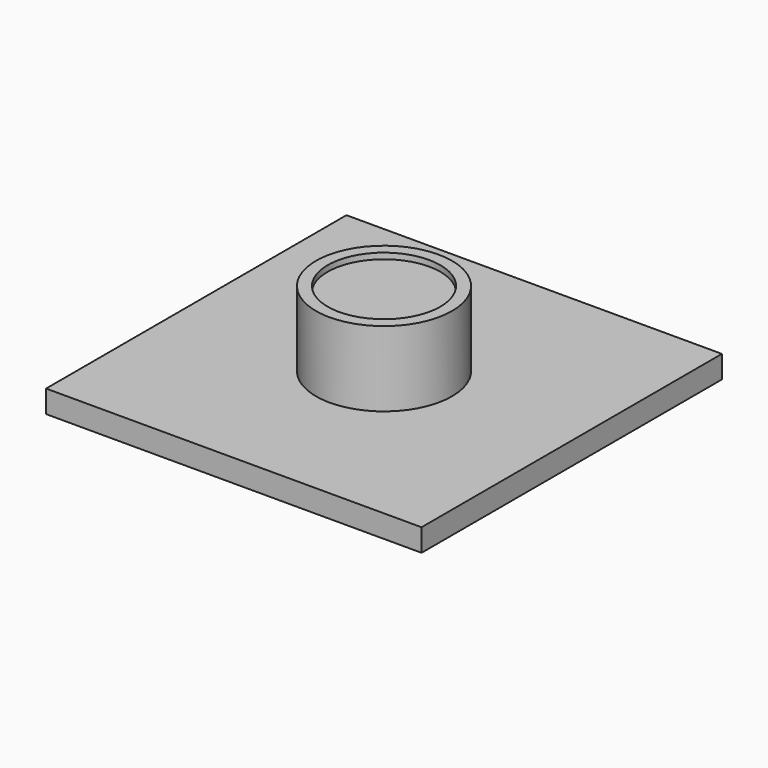
from build123d import *

# Parameters (mm, degrees)
F0_W     = 63.5
F0_H     = 63.499996
F1_DEPTH = 3.81
F2_R     = 11.5062
F3_DEPTH = 12.7
F4_R     = 9.525
F5_DEPTH = 0.9906


with BuildPart() as f1:
    # F0 (on Top) → F1 (new body)
    with BuildSketch(Plane.XY):
        Rectangle(F0_W, F0_H)
    extrude(amount=F1_DEPTH)

    # F2 (on face) → F3 (join)
    with BuildSketch(Plane.XY.offset(3.81)):
        Circle(F2_R)
    extrude(amount=F3_DEPTH)

    # F4 (on face) → F5 (cut)
    with BuildSketch(Plane.XY.offset(16.51)):
        Circle(F4_R)
    extrude(amount=-F5_DEPTH, mode=Mode.SUBTRACT)


solid = f1.part
